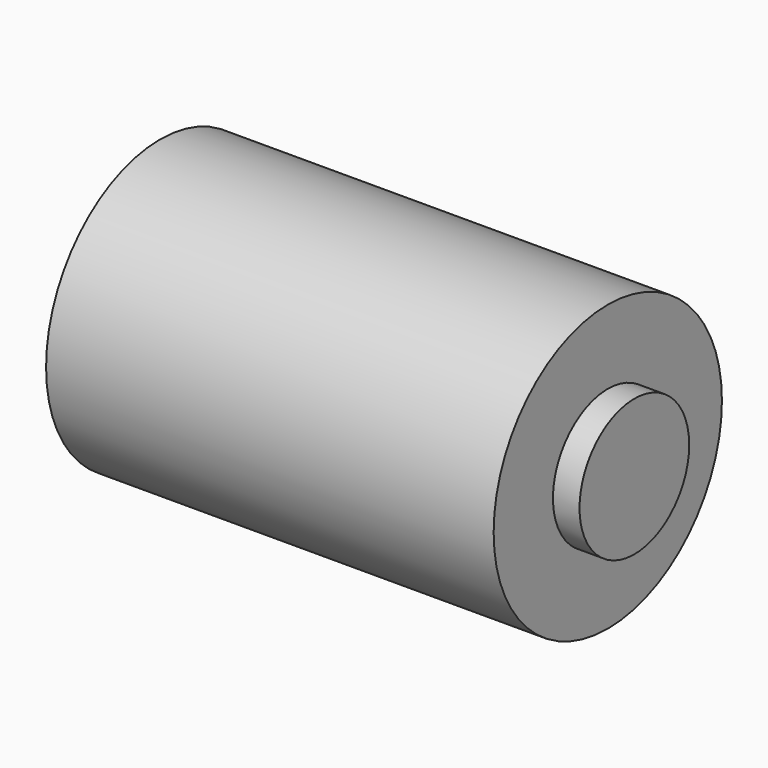
from build123d import *

# Parameters (mm, degrees)
F0_R     = 25.5
F0_R_2   = 12.25
F1_DEPTH = 40
F2_DEPTH = 44.75


with BuildPart() as f1:
    # F0 (on Right) → F1 (new body, symmetric)
    with BuildSketch(Plane.YZ):
        Circle(F0_R)
        Circle(F0_R_2, mode=Mode.SUBTRACT)
    extrude(amount=F1_DEPTH, both=True)

    # F0 (on Right) → F2 (join, symmetric)
    with BuildSketch(Plane.YZ):
        Circle(F0_R_2)
    extrude(amount=F2_DEPTH, both=True)


solid = f1.part
